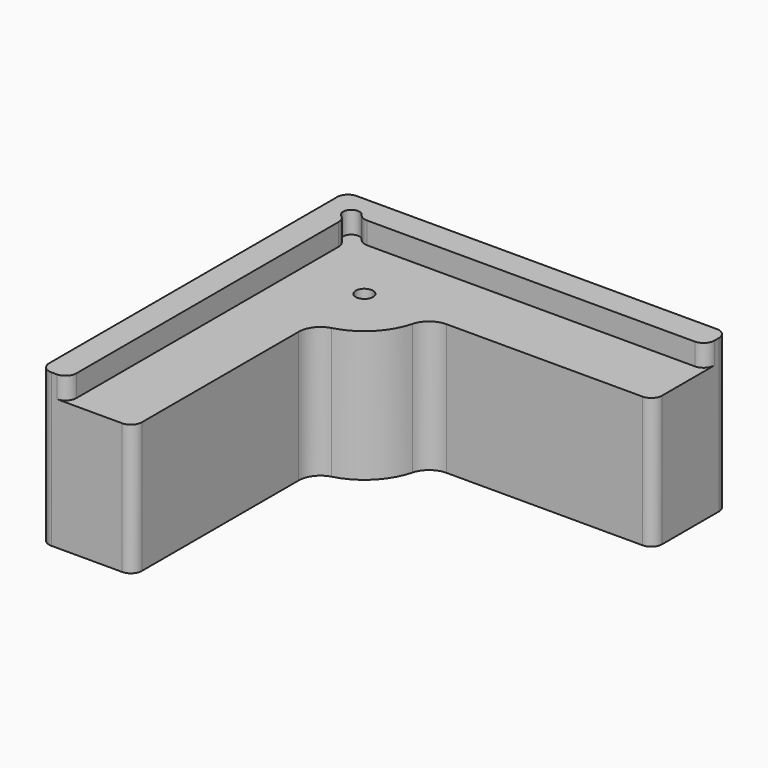
from build123d import *

# Parameters (mm, degrees)
F0_W      = 35
F0_H      = 35
F1_DEPTH  = 12
F3_DEPTH  = 2
F4_R      = 0.79375
F5_DEPTH  = 12.001
F7_DEPTH  = 12.001
F8_R      = 0.75
F9_DEPTH  = 2
F10_R     = 2
F12_DEPTH = 12.001
F13_R     = 1


with BuildPart() as f1:
    # F0 (on Top) → F1 (new body)
    with BuildSketch(Plane.XY):
        Rectangle(F0_W, F0_H)
    extrude(amount=F1_DEPTH)

    # F2 (on face) → F3 (join)
    with BuildSketch(Plane.XY.offset(12)):
        Polygon((17.5, 17.5), (-17.5, 17.5), (-17.5, -17.5), (-15, -17.5), (-15, 15), (17.5, 15), align=None)
    extrude(amount=F3_DEPTH)

    # F4 (on face) → F5 (cut, through all)
    with BuildSketch(Plane.XY.offset(12)):
        with Locations((-9, 9)):
            Circle(F4_R)
    extrude(amount=-F5_DEPTH, mode=Mode.SUBTRACT)

    # F6 (on face) → F7 (cut, through all)
    with BuildSketch(Plane.XY.offset(12)):
        with BuildLine():
            Line((12.5, 9), (-3.20625, 9))
            ThreePointArc((-3.20625, 9), (-4.9032000865, 4.9032000865), (-9, 3.20625))
            Line((-9, 3.20625), (-9, -12.5))
            Line((-9, -12.5), (12.5, -12.5))
            Line((12.5, -12.5), (12.5, 9))
        make_face()
    extrude(amount=-F7_DEPTH, mode=Mode.SUBTRACT)

    # F8 (on face) → F9 (cut, through all)
    with BuildSketch(Plane.XY.offset(14)):
        with Locations((-15, 15)):
            Circle(F8_R)
    extrude(amount=-F9_DEPTH, mode=Mode.SUBTRACT)

    # F10
    f10_edges = [f1.edges().sort_by_distance(p)[0] for p in [
        (-3.20625, 9, 6),
        (-9, 3.20625, 6),
        (12.5, 9, 6),
        (12.5, -12.5, 6),
        (-9, -12.5, 6),
    ]]
    fillet(f10_edges, radius=F10_R)

    # F11 (on face) → F12 (cut, through all)
    with BuildSketch(Plane.XY.offset(12)):
        Polygon((10.5, 9), (-9, -10.5), (-9, -17.5), (17.5, -17.5), (17.5, 9), align=None)
    extrude(amount=-F12_DEPTH, mode=Mode.SUBTRACT)

    # F13
    f13_edges = [f1.edges().sort_by_distance(p)[0] for p in [
        (17.5, 17.5, 7),
        (-17.5, -17.5, 7),
        (-17.5, 17.5, 7),
        (-15, -17.5, 13),
        (17.5, 15, 13),
        (-15, 14.25, 13),
        (-14.25, 15, 13),
        (-9, -17.5, 6),
        (17.5, 9, 6),
    ]]
    fillet(f13_edges, radius=F13_R)


solid = f1.part
